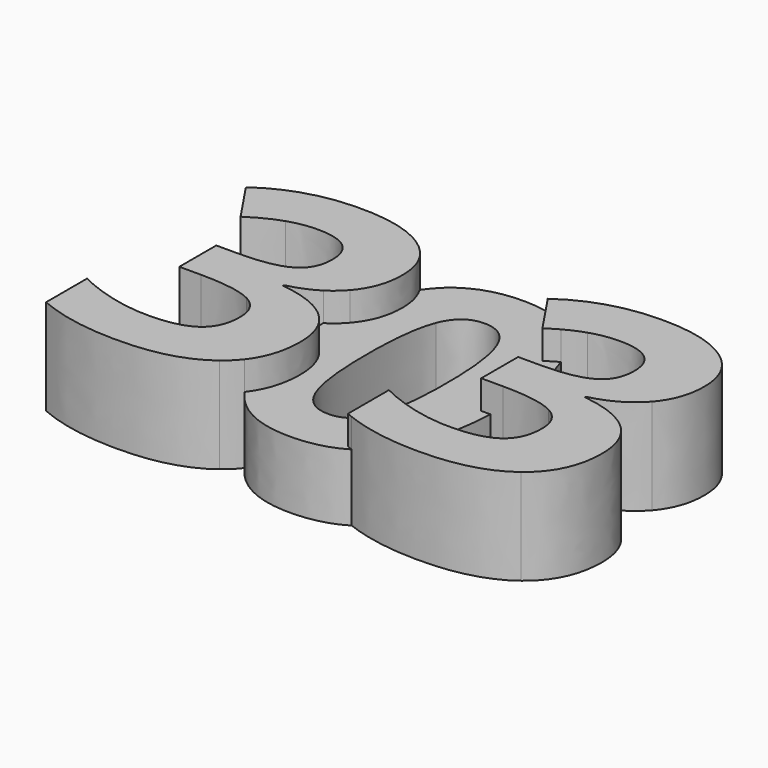
from build123d import *

# Parameters (mm, degrees)
F1_DEPTH = 12.7
F2_DEPTH = 8.89


with BuildPart() as f1:
    # F0 (on Top) → F1 (new body)
    with BuildSketch(Plane.XY):
        with BuildLine():
            add(Edge.make_bspline(
                [(29.1610977495, 27.8542589322), (29.5374194361, 35.8192308431), (32.2901589661, 39.9156862392)],
                knots=[0.1357698108, 0.1357698108, 0.1357698108, 0.9931368256, 0.9931368256, 0.9931368256], degree=2))
            add(Edge.make_bspline(
                [(30.0054036458, 42.2878580729), (31.4584214125, 41.2714527008), (32.2901589661, 39.9156862392)],
                knots=[0, 0, 0, 0.4275792267, 0.4275792267, 0.4275792267], degree=2))
            add(Edge.make_bspline(
                [(20.7449869792, 44.6649739583), (26.6071614583, 44.6649739583), (30.0054036458, 42.2878580729)],
                knots=[0, 0, 0, 1, 1, 1], degree=2))
            add(Edge.make_bspline(
                [(8.4170572917, 40.9442708333), (13.5847005208, 44.6649739583), (20.7449869792, 44.6649739583)],
                knots=[0, 0, 0, 1, 1, 1], degree=2))
            Line((8.4170572917, 40.9442708333), (12.1129557292, 35.4458984375))
            add(Edge.make_bspline(
                [(16.3876302083, 37.5873697917), (14.4611328125, 36.9672526042), (12.1129557292, 35.4458984375)],
                knots=[0, 0, 0, 1, 1, 1], degree=2))
            add(Edge.make_bspline(
                [(20.1744791667, 38.2074869792), (18.3141276042, 38.2074869792), (16.3876302083, 37.5873697917)],
                knots=[0, 0, 0, 1, 1, 1], degree=2))
            add(Edge.make_bspline(
                [(25.548828125, 33.9162760417), (25.548828125, 38.2074869792), (20.1744791667, 38.2074869792)],
                knots=[0, 0, 0, 1, 1, 1], degree=2))
            add(Edge.make_bspline(
                [(23.5189778646, 29.9805989583), (25.548828125, 31.1298828125), (25.548828125, 33.9162760417)],
                knots=[0, 0, 0, 1, 1, 1], degree=2))
            add(Edge.make_bspline(
                [(17.0986979167, 28.8313151042), (21.4891276042, 28.8313151042), (23.5189778646, 29.9805989583)],
                knots=[0, 0, 0, 1, 1, 1], degree=2))
            Line((17.0986979167, 28.8313151042), (14.1800130208, 28.8313151042))
            Line((14.1800130208, 28.8313151042), (14.1800130208, 22.7045572917))
            Line((14.1800130208, 22.7045572917), (17.0490885417, 22.7045572917))
            add(Edge.make_bspline(
                [(23.9737304688, 21.5924804688), (21.8033203125, 22.7045572917), (17.0490885417, 22.7045572917)],
                knots=[0, 0, 0, 1, 1, 1], degree=2))
            add(Edge.make_bspline(
                [(26.144140625, 17.8263020833), (26.144140625, 20.4804036458), (23.9737304688, 21.5924804688)],
                knots=[0, 0, 0, 1, 1, 1], degree=2))
            add(Edge.make_bspline(
                [(24.258984375, 13.5061523438), (26.144140625, 14.8497395833), (26.144140625, 17.8263020833)],
                knots=[0, 0, 0, 1, 1, 1], degree=2))
            add(Edge.make_bspline(
                [(18.4133463542, 12.1625651042), (22.373828125, 12.1625651042), (24.258984375, 13.5061523438)],
                knots=[0, 0, 0, 1, 1, 1], degree=2))
            add(Edge.make_bspline(
                [(13.19609375, 12.8612304688), (15.8336588542, 12.1625651042), (18.4133463542, 12.1625651042)],
                knots=[0, 0, 0, 1, 1, 1], degree=2))
            add(Edge.make_bspline(
                [(8.3674479167, 14.6678385417), (10.5585286458, 13.5598958333), (13.19609375, 12.8612304688)],
                knots=[0, 0, 0, 1, 1, 1], degree=2))
            Line((8.3674479167, 14.6678385417), (8.3674479167, 7.8713541667))
            add(Edge.make_bspline(
                [(19.2732421875, 5.8291015625), (13.1216796875, 5.8291015625), (8.3674479167, 7.8713541667)],
                knots=[0, 0, 0, 1, 1, 1], degree=2))
            add(Edge.make_bspline(
                [(30.559375, 8.8676757813), (26.6071614583, 5.8291015625), (19.2732421875, 5.8291015625)],
                knots=[0, 0, 0, 1, 1, 1], degree=2))
            add(Edge.make_bspline(
                [(32.4342281777, 10.7211903923), (31.6462488129, 9.7032952922), (30.559375, 8.8676757813)],
                knots=[0.7249961822, 0.7249961822, 0.7249961822, 1, 1, 1], degree=2))
            add(Edge.make_bspline(
                [(32.4342281777, 10.7211903923), (32.4277072491, 10.7308006006), (32.4211986996, 10.7404296875)],
                knots=[0.9980394128, 0.9980394128, 0.9980394128, 1, 1, 1], degree=2))
            add(Edge.make_bspline(
                [(32.4211986996, 10.7404296875), (29.1118542409, 15.636446147), (29.1015369551, 25.1749292384)],
                knots=[0, 0, 0, 0.9968823778, 0.9968823778, 0.9968823778], degree=2))
            add(Edge.make_bspline(
                [(25.2346354167, 26.09453125), (27.4228070361, 25.8219972396), (29.1015369551, 25.1749292384)],
                knots=[0, 0, 0, 0.4777042564, 0.4777042564, 0.4777042564], degree=2))
            Line((25.2346354167, 26.09453125), (25.2346354167, 26.243359375))
            add(Edge.make_bspline(
                [(29.1610977495, 27.8542589322), (27.4911359685, 26.7870364802), (25.2346354167, 26.243359375)],
                knots=[0.4180976701, 0.4180976701, 0.4180976701, 1, 1, 1], degree=2))
        make_face()
        with BuildLine():
            add(Edge.make_bspline(
                [(33.4036458333, 35.6774088542), (33.4036458333, 32.1386067708), (31.2580403646, 29.6581380208)],
                knots=[0, 0, 0, 1, 1, 1], degree=2))
            add(Edge.make_bspline(
                [(32.2901589661, 39.9156862392), (33.4036458333, 38.1006567945), (33.4036458333, 35.6774088542)],
                knots=[0.4275792267, 0.4275792267, 0.4275792267, 1, 1, 1], degree=2))
            add(Edge.make_bspline(
                [(29.1610977495, 27.8542589322), (29.5374194361, 35.8192308431), (32.2901589661, 39.9156862392)],
                knots=[0.1357698108, 0.1357698108, 0.1357698108, 0.9931368256, 0.9931368256, 0.9931368256], degree=2))
            add(Edge.make_bspline(
                [(31.2580403646, 29.6581380208), (30.3609677171, 28.6210598157), (29.1610977495, 27.8542589322)],
                knots=[0, 0, 0, 0.4180976701, 0.4180976701, 0.4180976701], degree=2))
        make_face()
        with BuildLine():
            add(Edge.make_bspline(
                [(29.1015369551, 25.1749292384), (30.9369685626, 24.4674604263), (32.1634114583, 23.3122721354)],
                knots=[0.4777042564, 0.4777042564, 0.4777042564, 1, 1, 1], degree=2))
            add(Edge.make_bspline(
                [(32.4211986996, 10.7404296875), (29.1118542409, 15.636446147), (29.1015369551, 25.1749292384)],
                knots=[0, 0, 0, 0.9968823778, 0.9968823778, 0.9968823778], degree=2))
            add(Edge.make_bspline(
                [(32.4342281777, 10.7211903923), (32.4277072491, 10.7308006006), (32.4211986996, 10.7404296875)],
                knots=[0.9980394128, 0.9980394128, 0.9980394128, 1, 1, 1], degree=2))
            add(Edge.make_bspline(
                [(34.5115885417, 17.3550130208), (34.5115885417, 13.4046806333), (32.4342281777, 10.7211903923)],
                knots=[0, 0, 0, 0.7249961822, 0.7249961822, 0.7249961822], degree=2))
            add(Edge.make_bspline(
                [(32.1634114583, 23.3122721354), (34.5115885417, 21.1005208333), (34.5115885417, 17.3550130208)],
                knots=[0, 0, 0, 1, 1, 1], degree=2))
        make_face()
    extrude(amount=F1_DEPTH)


with BuildPart() as f1b:
    # F0 (on Top) → F1, piece 2 (new body)
    with BuildSketch(Plane.XY):
        with BuildLine():
            add(Edge.make_bspline(
                [(50.1727063798, 42.0393678016), (54.7815075185, 44.6649739583), (60.7964666211, 44.6649739583)],
                knots=[0.1599555217, 0.1599555217, 0.1599555217, 1, 1, 1], degree=2))
            add(Edge.make_bspline(
                [(50.1727063798, 42.0393678016), (51.2810246926, 41.0742086339), (52.1657299496, 39.7619140625)],
                knots=[0.7354744801, 0.7354744801, 0.7354744801, 1, 1, 1], degree=2))
            add(Edge.make_bspline(
                [(52.1657299496, 39.7619140625), (53.1488168825, 38.3036886984), (53.8429337769, 36.4475490908)],
                knots=[0, 0, 0, 0.2939414907, 0.2939414907, 0.2939414907], degree=2))
            add(Edge.make_bspline(
                [(56.4391098503, 37.5873697917), (55.2247904931, 37.1964944621), (53.8429337769, 36.4475490908)],
                knots=[0, 0, 0, 0.6303249409, 0.6303249409, 0.6303249409], degree=2))
            add(Edge.make_bspline(
                [(60.2259588086, 38.2074869792), (58.3656072461, 38.2074869792), (56.4391098503, 37.5873697917)],
                knots=[0, 0, 0, 1, 1, 1], degree=2))
            add(Edge.make_bspline(
                [(65.600307767, 33.9162760417), (65.600307767, 38.2074869792), (60.2259588086, 38.2074869792)],
                knots=[0, 0, 0, 1, 1, 1], degree=2))
            add(Edge.make_bspline(
                [(63.5704575066, 29.9805989583), (65.600307767, 31.1298828125), (65.600307767, 33.9162760417)],
                knots=[0, 0, 0, 1, 1, 1], degree=2))
            add(Edge.make_bspline(
                [(57.1501775586, 28.8313151042), (61.5406072461, 28.8313151042), (63.5704575066, 29.9805989583)],
                knots=[0, 0, 0, 1, 1, 1], degree=2))
            Line((57.1501775586, 28.8313151042), (55.379954249, 28.8313151042))
            add(Edge.make_bspline(
                [(55.379954249, 28.8313151042), (55.5102286475, 27.1226697474), (55.5102286475, 25.2346354167)],
                knots=[0.8026377795, 0.8026377795, 0.8026377795, 1, 1, 1], degree=2))
            add(Edge.make_bspline(
                [(55.5102286475, 25.2346354167), (55.5102286475, 23.9245748863), (55.4533441498, 22.7045572917)],
                knots=[0, 0, 0, 0.1324791941, 0.1324791941, 0.1324791941], degree=2))
            Line((55.4533441498, 22.7045572917), (57.1005681836, 22.7045572917))
            add(Edge.make_bspline(
                [(64.0252101107, 21.5924804687), (61.8547999545, 22.7045572917), (57.1005681836, 22.7045572917)],
                knots=[0, 0, 0, 1, 1, 1], degree=2))
            add(Edge.make_bspline(
                [(66.195620267, 17.8263020833), (66.195620267, 20.4804036458), (64.0252101107, 21.5924804687)],
                knots=[0, 0, 0, 1, 1, 1], degree=2))
            add(Edge.make_bspline(
                [(64.310464017, 13.5061523437), (66.195620267, 14.8497395833), (66.195620267, 17.8263020833)],
                knots=[0, 0, 0, 1, 1, 1], degree=2))
            add(Edge.make_bspline(
                [(58.4648259961, 12.1625651042), (62.425307767, 12.1625651042), (64.310464017, 13.5061523437)],
                knots=[0, 0, 0, 1, 1, 1], degree=2))
            add(Edge.make_bspline(
                [(53.4822418469, 12.800422707), (55.9999540589, 12.1625651042), (58.4648259961, 12.1625651042)],
                knots=[0.044507547, 0.044507547, 0.044507547, 1, 1, 1], degree=2))
            add(Edge.make_bspline(
                [(53.4822418469, 12.800422707), (52.946442196, 11.5819070506), (52.2690828141, 10.5874674479)],
                knots=[0.7910123713, 0.7910123713, 0.7910123713, 1, 1, 1], degree=2))
            add(Edge.make_bspline(
                [(52.2690828141, 10.5874674479), (50.9878963739, 8.706541947), (49.1589302959, 7.5691239495)],
                knots=[0, 0, 0, 0.3952881191, 0.3952881191, 0.3952881191], degree=2))
            add(Edge.make_bspline(
                [(59.3247218295, 5.8291015625), (53.6465552461, 5.8291015625), (49.1589302959, 7.5691239495)],
                knots=[0, 0, 0, 0.9230446059, 0.9230446059, 0.9230446059], degree=2))
            add(Edge.make_bspline(
                [(70.610854642, 8.8676757812), (66.6586411003, 5.8291015625), (59.3247218295, 5.8291015625)],
                knots=[0, 0, 0, 1, 1, 1], degree=2))
            add(Edge.make_bspline(
                [(74.5630681836, 17.3550130208), (74.5630681836, 11.90625), (70.610854642, 8.8676757812)],
                knots=[0, 0, 0, 1, 1, 1], degree=2))
            add(Edge.make_bspline(
                [(72.2148911003, 23.3122721354), (74.5630681836, 21.1005208333), (74.5630681836, 17.3550130208)],
                knots=[0, 0, 0, 1, 1, 1], degree=2))
            add(Edge.make_bspline(
                [(65.2861150586, 26.09453125), (69.866714017, 25.5240234375), (72.2148911003, 23.3122721354)],
                knots=[0, 0, 0, 1, 1, 1], degree=2))
            Line((65.2861150586, 26.09453125), (65.2861150586, 26.243359375))
            add(Edge.make_bspline(
                [(71.3095200066, 29.6581380208), (69.1639145378, 27.1776692708), (65.2861150586, 26.243359375)],
                knots=[0, 0, 0, 1, 1, 1], degree=2))
            add(Edge.make_bspline(
                [(73.4551254753, 35.6774088542), (73.4551254753, 32.1386067708), (71.3095200066, 29.6581380208)],
                knots=[0, 0, 0, 1, 1, 1], degree=2))
            add(Edge.make_bspline(
                [(70.0568832878, 42.2878580729), (73.4551254753, 39.9107421875), (73.4551254753, 35.6774088542)],
                knots=[0, 0, 0, 1, 1, 1], degree=2))
            add(Edge.make_bspline(
                [(60.7964666211, 44.6649739583), (66.6586411003, 44.6649739583), (70.0568832878, 42.2878580729)],
                knots=[0, 0, 0, 1, 1, 1], degree=2))
        make_face()
        with BuildLine():
            add(Edge.make_bspline(
                [(50.1727063798, 42.0393678016), (51.2810246926, 41.0742086339), (52.1657299496, 39.7619140625)],
                knots=[0.7354744801, 0.7354744801, 0.7354744801, 1, 1, 1], degree=2))
            add(Edge.make_bspline(
                [(48.4685369336, 40.9442708333), (49.2951300021, 41.5394178426), (50.1727063798, 42.0393678016)],
                knots=[0, 0, 0, 0.1599555217, 0.1599555217, 0.1599555217], degree=2))
            Line((48.4685369336, 40.9442708333), (52.1644353711, 35.4458984375))
            add(Edge.make_bspline(
                [(53.8429337769, 36.4475490908), (53.0324978731, 36.0083051289), (52.1644353711, 35.4458984375)],
                knots=[0.6303249409, 0.6303249409, 0.6303249409, 1, 1, 1], degree=2))
            add(Edge.make_bspline(
                [(52.1657299496, 39.7619140625), (53.1488168825, 38.3036886984), (53.8429337769, 36.4475490908)],
                knots=[0, 0, 0, 0.2939414907, 0.2939414907, 0.2939414907], degree=2))
        make_face()
        with BuildLine():
            add(Edge.make_bspline(
                [(55.379954249, 28.8313151042), (55.5102286475, 27.1226697474), (55.5102286475, 25.2346354167)],
                knots=[0.8026377795, 0.8026377795, 0.8026377795, 1, 1, 1], degree=2))
            Line((55.379954249, 28.8313151042), (54.2314926628, 28.8313151042))
            Line((54.2314926628, 28.8313151042), (54.2314926628, 22.7045572917))
            Line((54.2314926628, 22.7045572917), (55.4533441498, 22.7045572917))
            add(Edge.make_bspline(
                [(55.5102286475, 25.2346354167), (55.5102286475, 23.9245748863), (55.4533441498, 22.7045572917)],
                knots=[0, 0, 0, 0.1324791941, 0.1324791941, 0.1324791941], degree=2))
        make_face()
        with BuildLine():
            add(Edge.make_bspline(
                [(49.1589302959, 7.5691239495), (48.7847913383, 7.7141918126), (48.4189275586, 7.8713541667)],
                knots=[0.9230446059, 0.9230446059, 0.9230446059, 1, 1, 1], degree=2))
            add(Edge.make_bspline(
                [(52.2690828141, 10.5874674479), (50.9878963739, 8.706541947), (49.1589302959, 7.5691239495)],
                knots=[0, 0, 0, 0.3952881191, 0.3952881191, 0.3952881191], degree=2))
            add(Edge.make_bspline(
                [(53.4822418469, 12.800422707), (52.946442196, 11.5819070506), (52.2690828141, 10.5874674479)],
                knots=[0.7910123713, 0.7910123713, 0.7910123713, 1, 1, 1], degree=2))
            add(Edge.make_bspline(
                [(53.247573392, 12.8612304687), (53.3649649449, 12.8301345872), (53.4822418469, 12.800422707)],
                knots=[0, 0, 0, 0.044507547, 0.044507547, 0.044507547], degree=2))
            add(Edge.make_bspline(
                [(48.4189275586, 14.6678385417), (50.6100082878, 13.5598958333), (53.247573392, 12.8612304687)],
                knots=[0, 0, 0, 1, 1, 1], degree=2))
            Line((48.4189275586, 14.6678385417), (48.4189275586, 7.8713541667))
        make_face()
    extrude(amount=F1_DEPTH)


with BuildPart() as f2:
    # F0 (on Top) → F2 (new body)
    with BuildSketch(Plane.XY):
        with BuildLine():
            add(Edge.make_bspline(
                [(32.2901589661, 39.9156862392), (33.4036458333, 38.1006567945), (33.4036458333, 35.6774088542)],
                knots=[0.4275792267, 0.4275792267, 0.4275792267, 1, 1, 1], degree=2))
            add(Edge.make_bspline(
                [(33.4036458333, 35.6774088542), (33.4036458333, 32.1386067708), (31.2580403646, 29.6581380208)],
                knots=[0, 0, 0, 1, 1, 1], degree=2))
            add(Edge.make_bspline(
                [(31.2580403646, 29.6581380208), (30.3609677171, 28.6210598157), (29.1610977495, 27.8542589322)],
                knots=[0, 0, 0, 0.4180976701, 0.4180976701, 0.4180976701], degree=2))
            add(Edge.make_bspline(
                [(29.1015046891, 25.2346354167), (29.1015046891, 26.5929522677), (29.1610977495, 27.8542589322)],
                knots=[0, 0, 0, 0.1357698108, 0.1357698108, 0.1357698108], degree=2))
            add(Edge.make_bspline(
                [(29.1015369551, 25.1749292384), (29.1015046891, 25.2047596248), (29.1015046891, 25.2346354167)],
                knots=[0.9968823778, 0.9968823778, 0.9968823778, 1, 1, 1], degree=2))
            add(Edge.make_bspline(
                [(29.1015369551, 25.1749292384), (30.9369685626, 24.4674604263), (32.1634114583, 23.3122721354)],
                knots=[0.4777042564, 0.4777042564, 0.4777042564, 1, 1, 1], degree=2))
            add(Edge.make_bspline(
                [(32.1634114583, 23.3122721354), (34.5115885417, 21.1005208333), (34.5115885417, 17.3550130208)],
                knots=[0, 0, 0, 1, 1, 1], degree=2))
            add(Edge.make_bspline(
                [(34.5115885417, 17.3550130208), (34.5115885417, 13.4046806333), (32.4342281777, 10.7211903923)],
                knots=[0, 0, 0, 0.7249961822, 0.7249961822, 0.7249961822], degree=2))
            add(Edge.make_bspline(
                [(42.2810619808, 5.8291015625), (35.753715282, 5.8291015625), (32.4342281777, 10.7211903923)],
                knots=[0, 0, 0, 0.9980394128, 0.9980394128, 0.9980394128], degree=2))
            add(Edge.make_bspline(
                [(49.1589302959, 7.5691239495), (46.3609774521, 5.8291015625), (42.2810619808, 5.8291015625)],
                knots=[0.3952881191, 0.3952881191, 0.3952881191, 1, 1, 1], degree=2))
            add(Edge.make_bspline(
                [(49.1589302959, 7.5691239495), (48.7847913383, 7.7141918126), (48.4189275586, 7.8713541667)],
                knots=[0.9230446059, 0.9230446059, 0.9230446059, 1, 1, 1], degree=2))
            Line((48.4189275586, 7.8713541667), (48.4189275586, 14.6678385417))
            add(Edge.make_bspline(
                [(48.4189275586, 14.6678385417), (50.6100082878, 13.5598958333), (53.247573392, 12.8612304687)],
                knots=[0, 0, 0, 1, 1, 1], degree=2))
            add(Edge.make_bspline(
                [(53.247573392, 12.8612304687), (53.3649649449, 12.8301345872), (53.4822418469, 12.800422707)],
                knots=[0, 0, 0, 0.044507547, 0.044507547, 0.044507547], degree=2))
            add(Edge.make_bspline(
                [(55.4533441498, 22.7045572917), (55.1705802846, 16.6400422669), (53.4822418469, 12.800422707)],
                knots=[0.1324791941, 0.1324791941, 0.1324791941, 0.7910123713, 0.7910123713, 0.7910123713], degree=2))
            Line((55.4533441498, 22.7045572917), (54.2314926628, 22.7045572917))
            Line((54.2314926628, 22.7045572917), (54.2314926628, 28.8313151042))
            Line((54.2314926628, 28.8313151042), (55.379954249, 28.8313151042))
            add(Edge.make_bspline(
                [(53.8429337769, 36.4475490908), (55.044175178, 33.2353066561), (55.379954249, 28.8313151042)],
                knots=[0.2939414907, 0.2939414907, 0.2939414907, 0.8026377795, 0.8026377795, 0.8026377795], degree=2))
            add(Edge.make_bspline(
                [(53.8429337769, 36.4475490908), (53.0324978731, 36.0083051289), (52.1644353711, 35.4458984375)],
                knots=[0.6303249409, 0.6303249409, 0.6303249409, 1, 1, 1], degree=2))
            Line((52.1644353711, 35.4458984375), (48.4685369336, 40.9442708333))
            add(Edge.make_bspline(
                [(48.4685369336, 40.9442708333), (49.2951300021, 41.5394178426), (50.1727063798, 42.0393678016)],
                knots=[0, 0, 0, 0.1599555217, 0.1599555217, 0.1599555217], degree=2))
            add(Edge.make_bspline(
                [(42.2810619808, 44.7228515625), (47.091189575, 44.7228515625), (50.1727063798, 42.0393678016)],
                knots=[0, 0, 0, 0.7354744801, 0.7354744801, 0.7354744801], degree=2))
            add(Edge.make_bspline(
                [(32.3343822933, 39.9810221354), (35.5672598975, 44.7228515625), (42.2810619808, 44.7228515625)],
                knots=[0, 0, 0, 1, 1, 1], degree=2))
            add(Edge.make_bspline(
                [(32.2901589661, 39.9156862392), (32.3121944903, 39.9484781329), (32.3343822933, 39.9810221354)],
                knots=[0.9931368256, 0.9931368256, 0.9931368256, 1, 1, 1], degree=2))
        make_face()
        with BuildLine():
            add(Edge.make_bspline(
                [(37.0390046891, 25.2346354167), (37.0390046891, 18.2893229167), (38.2378979183, 15.2796875)],
                knots=[0, 0, 0, 1, 1, 1], degree=2))
            add(Edge.make_bspline(
                [(38.2503002621, 35.22265625), (37.0390046891, 32.1882161458), (37.0390046891, 25.2346354167)],
                knots=[0, 0, 0, 1, 1, 1], degree=2))
            add(Edge.make_bspline(
                [(42.2810619808, 38.2570963542), (39.461595835, 38.2570963542), (38.2503002621, 35.22265625)],
                knots=[0, 0, 0, 1, 1, 1], degree=2))
            add(Edge.make_bspline(
                [(46.2994213558, 35.22265625), (45.0426505225, 38.2570963542), (42.2810619808, 38.2570963542)],
                knots=[0, 0, 0, 1, 1, 1], degree=2))
            add(Edge.make_bspline(
                [(47.5561921891, 25.2346354167), (47.5561921891, 32.1882161458), (46.2994213558, 35.22265625)],
                knots=[0, 0, 0, 1, 1, 1], degree=2))
            add(Edge.make_bspline(
                [(46.3159578141, 15.3168945313), (47.5561921891, 18.3637369792), (47.5561921891, 25.2346354167)],
                knots=[0, 0, 0, 1, 1, 1], degree=2))
            add(Edge.make_bspline(
                [(42.2810619808, 12.2700520833), (45.0757234391, 12.2700520833), (46.3159578141, 15.3168945313)],
                knots=[0, 0, 0, 1, 1, 1], degree=2))
            add(Edge.make_bspline(
                [(38.2378979183, 15.2796875), (39.4367911475, 12.2700520833), (42.2810619808, 12.2700520833)],
                knots=[0, 0, 0, 1, 1, 1], degree=2))
        make_face(mode=Mode.SUBTRACT)
    extrude(amount=F2_DEPTH)


solid = Compound([f1.part, f1b.part, f2.part])
